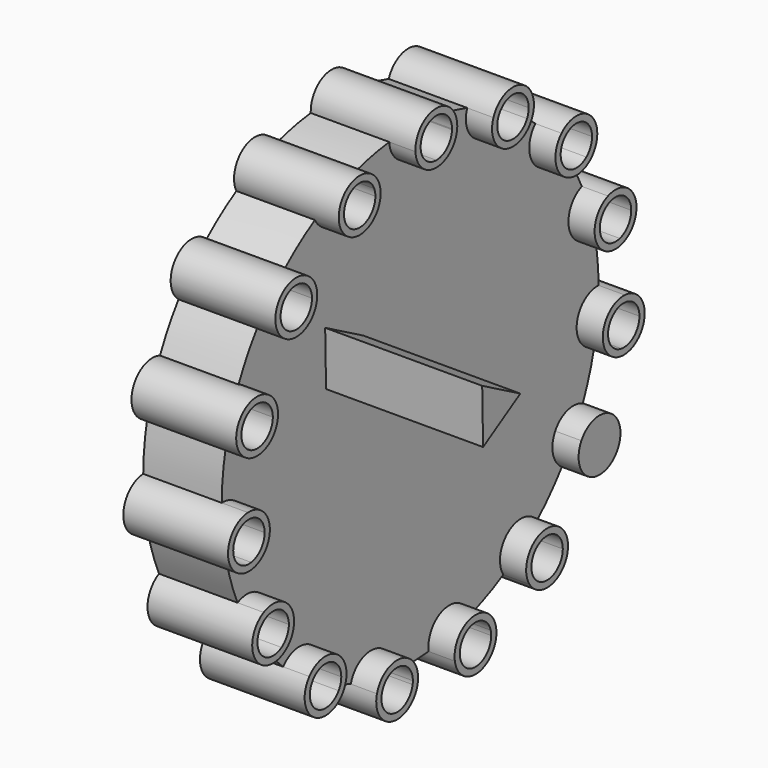
from build123d import *

# Parameters (mm, degrees)
F1_DEPTH = 12.7
F2_DEPTH = 16.9333333333
F3_DEPTH = 25.4
F4_DEPTH = 38.1


with BuildPart() as f1:
    # F0 (on Right) → F1 (new body)
    with BuildSketch(Plane.YZ):
        with BuildLine():
            ThreePointArc((-11.7328223284, 11.0955027242), (-13.5337021568, 13.6568077242), (-13.0819225114, 16.7550889591))
            Line((-13.0819225114, 16.7550889591), (-42.4113161862, 33.6884222925))
            Line((-42.4113161862, 33.6884222925), (-42.4113161862, 67.5550889591))
            ThreePointArc((-42.4113161862, 67.5550889591), (-45.3203962665, 68.7129769268), (-46.6381115491, 71.5532371073))
            ThreePointArc((-46.6381115491, 71.5532371073), (-50.3327516063, 70.9558458804), (-53.9509541505, 69.9988444279))
            ThreePointArc((-53.9509541505, 69.9988444279), (-53.7442982081, 69.2592564756), (-53.674648954, 68.4945042287))
            ThreePointArc((-53.674648954, 68.4945042287), (-56.9130953435, 64.3797367893), (-61.6736935588, 66.5604593142))
            ThreePointArc((-61.6736935588, 66.5604593142), (-64.8059342985, 64.5119697782), (-67.7220792394, 62.1660498915))
            ThreePointArc((-67.7220792394, 62.1660498915), (-66.8114373772, 60.7960175672), (-66.4918007035, 59.1822983947))
            ThreePointArc((-66.4918007035, 59.1822983947), (-68.8964795041, 55.364297123), (-73.3786355276, 55.8838076869))
            ThreePointArc((-73.3786355276, 55.8838076869), (-75.4068840704, 52.7384222925), (-77.1167434552, 49.409214832))
            ThreePointArc((-77.1167434552, 49.409214832), (-75.1539075411, 47.8541286048), (-74.4132361237, 45.4619697782))
            ThreePointArc((-74.4132361237, 45.4619697782), (-76.0640683133, 42.1075996504), (-79.729046653, 41.3693722862))
            ThreePointArc((-79.729046653, 41.3693722862), (-80.3026003997, 37.670956743), (-80.5105240074, 33.9341119236))
            ThreePointArc((-80.5105240074, 33.9341119236), (-77.3836193128, 32.7719375032), (-76.0692670664, 29.705887842))
            ThreePointArc((-76.0692670664, 29.705887842), (-77.0791203372, 26.9617509289), (-79.6268831598, 25.5268308523))
            ThreePointArc((-79.6268831598, 25.5268308523), (-78.646569457, 21.9148748068), (-77.3166054069, 18.4165270459))
            ThreePointArc((-77.3166054069, 18.4165270459), (-73.1891572928, 18.2443617056), (-71.173550737, 14.6384222925))
            ThreePointArc((-71.173550737, 14.6384222925), (-71.6833066358, 12.624450545), (-73.089810044, 11.0955027242))
            ThreePointArc((-73.089810044, 11.0955027242), (-70.7251340369, 8.1945461902), (-68.0872451954, 5.5395915972))
            ThreePointArc((-68.0872451954, 5.5395915972), (-63.3863871323, 6.8531071162), (-60.5726009652, 2.8648748068))
            ThreePointArc((-60.5726009652, 2.8648748068), (-60.7449976935, 1.6690884544), (-61.2481466348, 0.5706956397))
            ThreePointArc((-61.2481466348, 0.5706956397), (-57.9079822874, -1.1176596437), (-54.4182835998, -2.4701553002))
            ThreePointArc((-54.4182835998, -2.4701553002), (-49.7734250744, 0.6172190207), (-46.099418273, -3.5790012955))
            ThreePointArc((-46.099418273, -3.5790012955), (-46.111938247, -3.9043406512), (-46.1494241138, -4.2277556415))
            ThreePointArc((-46.1494241138, -4.2277556415), (-42.4113161862, -4.4115777075), (-38.6732082585, -4.2277556415))
            ThreePointArc((-38.6732082585, -4.2277556415), (-35.3700402572, 0.5618235476), (-30.4043487725, -2.4701553002))
            ThreePointArc((-30.4043487725, -2.4701553002), (-26.914650085, -1.1176596437), (-23.5744857376, 0.5706956397))
            ThreePointArc((-23.5744857376, 0.5706956397), (-22.5049889752, 6.2897134163), (-16.7353871769, 5.5395915972))
            ThreePointArc((-16.7353871769, 5.5395915972), (-14.0974983355, 8.1945461902), (-11.7328223284, 11.0955027242))
        make_face()
        Polygon((-59.4144481647, 41.5652124259), (-59.5970671258, 50.3621352012), (-51.8873990467, 46.1218264731), align=None, mode=Mode.SUBTRACT)
        with BuildLine():
            ThreePointArc((-5.1957492126, 25.5268308523), (-8.7301746631, 30.1483916698), (-4.312108365, 33.9341119236))
            ThreePointArc((-4.312108365, 33.9341119236), (-4.5200319727, 37.670956743), (-5.0935857194, 41.3693722862))
            ThreePointArc((-5.0935857194, 41.3693722862), (-10.2022021677, 44.1537978353), (-7.7058889171, 49.409214832))
            ThreePointArc((-7.7058889171, 49.409214832), (-9.415748302, 52.7384222925), (-11.4439968448, 55.8838076869))
            ThreePointArc((-11.4439968448, 55.8838076869), (-17.2434780967, 56.3496454945), (-17.100553133, 62.1660498915))
            ThreePointArc((-17.100553133, 62.1660498915), (-20.0166980738, 64.5119697782), (-23.1489388136, 66.5604593142))
            ThreePointArc((-23.1489388136, 66.5604593142), (-28.636501874, 64.6271617913), (-30.8716782219, 69.9988444279))
            ThreePointArc((-30.8716782219, 69.9988444279), (-34.489880766, 70.9558458804), (-38.1845208233, 71.5532371073))
            ThreePointArc((-38.1845208233, 71.5532371073), (-39.5022361059, 68.7129769268), (-42.4113161862, 67.5550889591))
            Line((-42.4113161862, 67.5550889591), (-42.4113161862, 33.6884222925))
            Line((-42.4113161862, 33.6884222925), (-13.0819225114, 16.7550889591))
            ThreePointArc((-13.0819225114, 16.7550889591), (-10.6246220765, 18.6954822265), (-7.5060269655, 18.4165270459))
            ThreePointArc((-7.5060269655, 18.4165270459), (-6.1760629153, 21.9148748068), (-5.1957492126, 25.5268308523))
        make_face()
    extrude(amount=F1_DEPTH)

    # F0 (on Right) → F2 (join)
    with BuildSketch(Plane.YZ):
        with BuildLine():
            ThreePointArc((-4.3200092744, 32.8745809354), (-4.3134895202, 33.2814784007), (-4.3113161862, 33.6884222925))
            ThreePointArc((-4.3113161862, 33.6884222925), (-4.3115142314, 33.8112677466), (-4.312108365, 33.9341119236))
            ThreePointArc((-4.312108365, 33.9341119236), (-8.7301746631, 30.1483916698), (-5.1957492126, 25.5268308523))
            ThreePointArc((-5.1957492126, 25.5268308523), (-5.0858603099, 26.0451020959), (-4.983188589, 26.5648512378))
            ThreePointArc((-4.983188589, 26.5648512378), (-7.6776389905, 30.0377657128), (-4.3200092744, 32.8745809354))
        make_face()
        with BuildLine():
            ThreePointArc((-30.2565474327, -3.5790012955), (-30.2936604499, -3.0196747636), (-30.4043487725, -2.4701553002))
            ThreePointArc((-30.4043487725, -2.4701553002), (-30.9082943538, -2.6336163167), (-31.4144641384, -2.7900541702))
            ThreePointArc((-31.4144641384, -2.7900541702), (-31.3398749888, -3.1813977195), (-31.314880766, -3.5790012955))
            ThreePointArc((-31.314880766, -3.5790012955), (-34.2238727227, -6.7428383205), (-37.6203073619, -4.1091468681))
            ThreePointArc((-37.6203073619, -4.1091468681), (-38.1463454767, -4.1721115766), (-38.6732082585, -4.2277556415))
            ThreePointArc((-38.6732082585, -4.2277556415), (-34.1645414103, -7.7998146549), (-30.2565474327, -3.5790012955))
        make_face()
        with BuildLine():
            ThreePointArc((-76.0692670664, 29.705887842), (-77.3836193128, 32.7719375032), (-80.5105240074, 33.9341119236))
            ThreePointArc((-80.5105240074, 33.9341119236), (-80.5102569234, 33.4043189626), (-80.5026230979, 32.8745809354))
            ThreePointArc((-80.5026230979, 32.8745809354), (-78.1294054093, 32.0205905299), (-77.1276003997, 29.705887842))
            ThreePointArc((-77.1276003997, 29.705887842), (-77.8993580839, 27.6310260703), (-79.8394437833, 26.5648512378))
            ThreePointArc((-79.8394437833, 26.5648512378), (-79.7367720625, 26.0451020959), (-79.6268831598, 25.5268308523))
            ThreePointArc((-79.6268831598, 25.5268308523), (-77.0791203372, 26.9617509289), (-76.0692670664, 29.705887842))
        make_face()
        with BuildLine():
            ThreePointArc((-24.0704700202, 67.0833824199), (-23.6078865185, 66.8251244931), (-23.1489388136, 66.5604593142))
            ThreePointArc((-23.1489388136, 66.5604593142), (-22.7998826456, 67.4996172848), (-22.6813167517, 68.4945042287))
            ThreePointArc((-22.6813167517, 68.4945042287), (-26.1498978381, 72.6581883079), (-30.8716782219, 69.9988444279))
            ThreePointArc((-30.8716782219, 69.9988444279), (-30.3678977076, 69.8348753875), (-29.8664458866, 69.663917135))
            ThreePointArc((-29.8664458866, 69.663917135), (-26.3193882393, 71.6132040114), (-23.739650085, 68.4945042287))
            ThreePointArc((-23.739650085, 68.4945042287), (-23.8234612598, 67.7698135035), (-24.0704700202, 67.0833824199))
        make_face()
        with BuildLine():
            ThreePointArc((-66.4918007035, 59.1822983947), (-66.8114373772, 60.7960175672), (-67.7220792394, 62.1660498915))
            ThreePointArc((-67.7220792394, 62.1660498915), (-68.1156134228, 61.8113507241), (-68.5041774703, 61.4512137589))
            ThreePointArc((-68.5041774703, 61.4512137589), (-67.7983472238, 60.4129664859), (-67.5501340369, 59.1822983947))
            ThreePointArc((-67.5501340369, 59.1822983947), (-69.3735852475, 56.309331136), (-72.7494668683, 56.7363422244))
            ThreePointArc((-72.7494668683, 56.7363422244), (-73.0670149629, 56.3122622078), (-73.3786355276, 55.8838076869))
            ThreePointArc((-73.3786355276, 55.8838076869), (-68.8964795041, 55.364297123), (-66.4918007035, 59.1822983947))
        make_face()
        with BuildLine():
            ThreePointArc((-62.161776932, 1.1073035221), (-61.7068272557, 0.8358234217), (-61.2481466348, 0.5706956397))
            ThreePointArc((-61.2481466348, 0.5706956397), (-60.7449976935, 1.6690884544), (-60.5726009652, 2.8648748068))
            ThreePointArc((-60.5726009652, 2.8648748068), (-63.3863871323, 6.8531071162), (-68.0872451954, 5.5395915972))
            ThreePointArc((-68.0872451954, 5.5395915972), (-67.6933535838, 5.1852893941), (-67.2945734838, 4.8364985046))
            ThreePointArc((-67.2945734838, 4.8364985046), (-63.7620962874, 5.8633789683), (-61.6309342985, 2.8648748068))
            ThreePointArc((-61.6309342985, 2.8648748068), (-61.7665408855, 1.9468809721), (-62.161776932, 1.1073035221))
        make_face()
        with BuildLine():
            ThreePointArc((-67.2945734838, 4.8364985046), (-64.8059342985, 2.8648748068), (-62.161776932, 1.1073035221))
            ThreePointArc((-62.161776932, 1.1073035221), (-61.7665408855, 1.9468809721), (-61.6309342985, 2.8648748068))
            ThreePointArc((-61.6309342985, 2.8648748068), (-63.7620962874, 5.8633789683), (-67.2945734838, 4.8364985046))
        make_face()
        with BuildLine():
            ThreePointArc((-12.073165504, 56.7363422244), (-11.7556174095, 56.3122622078), (-11.4439968448, 55.8838076869))
            ThreePointArc((-11.4439968448, 55.8838076869), (-10.2794970638, 57.353643862), (-9.8641650022, 59.1822983947))
            ThreePointArc((-9.8641650022, 59.1822983947), (-12.4837791631, 63.0959950544), (-17.100553133, 62.1660498915))
            ThreePointArc((-17.100553133, 62.1660498915), (-16.7070189496, 61.8113507241), (-16.318454902, 61.4512137589))
            ThreePointArc((-16.318454902, 61.4512137589), (-12.8668302443, 62.1090852079), (-10.9224983355, 59.1822983947))
            ThreePointArc((-10.9224983355, 59.1822983947), (-11.2245310767, 57.8307496054), (-12.073165504, 56.7363422244))
        make_face()
        with BuildLine():
            Line((-12.165378959, 16.2259222925), (-13.0819225114, 16.7550889591))
            ThreePointArc((-13.0819225114, 16.7550889591), (-13.5337021568, 13.6568077242), (-11.7328223284, 11.0955027242))
            ThreePointArc((-11.7328223284, 11.0955027242), (-11.4216339147, 11.5242712212), (-11.1164376092, 11.9573253378))
            ThreePointArc((-11.1164376092, 11.9573253378), (-12.4990204172, 13.8807560971), (-12.165378959, 16.2259222925))
        make_face()
        with BuildLine():
            ThreePointArc((-4.312108365, 33.9341119236), (-4.3115142314, 33.8112677466), (-4.3113161862, 33.6884222925))
            ThreePointArc((-4.3113161862, 33.6884222925), (-4.3134895202, 33.2814784007), (-4.3200092744, 32.8745809354))
            ThreePointArc((-4.3200092744, 32.8745809354), (-2.2053292847, 31.8790828324), (-1.3450319727, 29.705887842))
            ThreePointArc((-1.3450319727, 29.705887842), (-2.445170201, 27.3026455262), (-4.983188589, 26.5648512378))
            ThreePointArc((-4.983188589, 26.5648512378), (-5.0858603099, 26.0451020959), (-5.1957492126, 25.5268308523))
            ThreePointArc((-5.1957492126, 25.5268308523), (-1.7758950596, 26.4824077795), (-0.2866986393, 29.705887842))
            ThreePointArc((-0.2866986393, 29.705887842), (-1.4539823114, 32.6248689289), (-4.312108365, 33.9341119236))
        make_face()
        with BuildLine():
            ThreePointArc((-74.4132361237, 45.4619697782), (-75.1539075411, 47.8541286048), (-77.1167434552, 49.409214832))
            ThreePointArc((-77.1167434552, 49.409214832), (-77.3319856723, 48.9251162462), (-77.5404756927, 48.4380715211))
            ThreePointArc((-77.5404756927, 48.4380715211), (-76.0396102416, 47.2742580138), (-75.471569457, 45.4619697782))
            ThreePointArc((-75.471569457, 45.4619697782), (-76.727231771, 42.932786541), (-79.5010295181, 42.4041072888))
            ThreePointArc((-79.5010295181, 42.4041072888), (-79.6186352551, 41.8875324699), (-79.729046653, 41.3693722862))
            ThreePointArc((-79.729046653, 41.3693722862), (-76.0640683133, 42.1075996504), (-74.4132361237, 45.4619697782))
        make_face()
        with BuildLine():
            Line((-42.4113161862, 68.6134222925), (-42.4113161862, 67.5550889591))
            ThreePointArc((-42.4113161862, 67.5550889591), (-39.5022361059, 68.7129769268), (-38.1845208233, 71.5532371073))
            ThreePointArc((-38.1845208233, 71.5532371073), (-38.7114394409, 71.6083499304), (-39.2390734598, 71.6561306258))
            ThreePointArc((-39.2390734598, 71.6561306258), (-40.2135219558, 69.4970634116), (-42.4113161862, 68.6134222925))
        make_face()
        with BuildLine():
            ThreePointArc((-47.2023250105, -4.1091468681), (-46.6762868956, -4.1721115766), (-46.1494241138, -4.2277556415))
            ThreePointArc((-46.1494241138, -4.2277556415), (-46.111938247, -3.9043406512), (-46.099418273, -3.5790012955))
            ThreePointArc((-46.099418273, -3.5790012955), (-49.7734250744, 0.6172190207), (-54.4182835998, -2.4701553002))
            ThreePointArc((-54.4182835998, -2.4701553002), (-53.9143380185, -2.6336163167), (-53.408168234, -2.7900541702))
            ThreePointArc((-53.408168234, -2.7900541702), (-49.9351480304, -0.4289955183), (-47.1577516063, -3.5790012955))
            ThreePointArc((-47.1577516063, -3.5790012955), (-47.1689145813, -3.8450093388), (-47.2023250105, -4.1091468681))
        make_face()
        with BuildLine():
            ThreePointArc((-7.7058889171, 49.409214832), (-10.2022021677, 44.1537978353), (-5.0935857194, 41.3693722862))
            ThreePointArc((-5.0935857194, 41.3693722862), (-5.2039971173, 41.8875324699), (-5.3216028543, 42.4041072888))
            ThreePointArc((-5.3216028543, 42.4041072888), (-9.1956673546, 44.480840821), (-7.2821566797, 48.4380715211))
            ThreePointArc((-7.2821566797, 48.4380715211), (-7.4906467, 48.9251162462), (-7.7058889171, 49.409214832))
        make_face()
        with BuildLine():
            ThreePointArc((-53.408168234, -2.7900541702), (-50.3327516063, -3.5790012955), (-47.2023250105, -4.1091468681))
            ThreePointArc((-47.2023250105, -4.1091468681), (-47.1689145813, -3.8450093388), (-47.1577516063, -3.5790012955))
            ThreePointArc((-47.1577516063, -3.5790012955), (-49.9351480304, -0.4289955183), (-53.408168234, -2.7900541702))
        make_face()
        with BuildLine():
            ThreePointArc((-68.0872451954, 5.5395915972), (-67.2942251999, -0.5599638027), (-61.2481466348, 0.5706956397))
            ThreePointArc((-61.2481466348, 0.5706956397), (-61.7068272557, 0.8358234217), (-62.161776932, 1.1073035221))
            ThreePointArc((-62.161776932, 1.1073035221), (-66.6721524746, 0.2962458496), (-67.2945734838, 4.8364985046))
            ThreePointArc((-67.2945734838, 4.8364985046), (-67.6933535838, 5.1852893941), (-68.0872451954, 5.5395915972))
        make_face()
        with BuildLine():
            ThreePointArc((-80.5026230979, 32.8745809354), (-80.5102569234, 33.4043189626), (-80.5105240074, 33.9341119236))
            ThreePointArc((-80.5105240074, 33.9341119236), (-84.5127430901, 29.2633840141), (-79.6268831598, 25.5268308523))
            ThreePointArc((-79.6268831598, 25.5268308523), (-79.7367720625, 26.0451020959), (-79.8394437833, 26.5648512378))
            ThreePointArc((-79.8394437833, 26.5648512378), (-83.4602074175, 29.3740099711), (-80.5026230979, 32.8745809354))
        make_face()
        with BuildLine():
            ThreePointArc((-4.983188589, 26.5648512378), (-4.5200319727, 29.705887842), (-4.3200092744, 32.8745809354))
            ThreePointArc((-4.3200092744, 32.8745809354), (-7.6776389905, 30.0377657128), (-4.983188589, 26.5648512378))
        make_face()
        with BuildLine():
            ThreePointArc((-68.5041774703, 61.4512137589), (-68.1156134228, 61.8113507241), (-67.7220792394, 62.1660498915))
            ThreePointArc((-67.7220792394, 62.1660498915), (-73.8711137981, 62.014951295), (-73.3786355276, 55.8838076869))
            ThreePointArc((-73.3786355276, 55.8838076869), (-73.0670149629, 56.3122622078), (-72.7494668683, 56.7363422244))
            ThreePointArc((-72.7494668683, 56.7363422244), (-73.0846188578, 61.3067880699), (-68.5041774703, 61.4512137589))
        make_face()
        with BuildLine():
            ThreePointArc((-31.4144641384, -2.7900541702), (-30.9082943538, -2.6336163167), (-30.4043487725, -2.4701553002))
            ThreePointArc((-30.4043487725, -2.4701553002), (-35.3700402572, 0.5618235476), (-38.6732082585, -4.2277556415))
            ThreePointArc((-38.6732082585, -4.2277556415), (-38.1463454767, -4.1721115766), (-37.6203073619, -4.1091468681))
            ThreePointArc((-37.6203073619, -4.1091468681), (-35.1500003844, -0.4733826632), (-31.4144641384, -2.7900541702))
        make_face()
        with BuildLine():
            ThreePointArc((-73.7061947632, 11.9573253378), (-73.4009984577, 11.5242712212), (-73.089810044, 11.0955027242))
            ThreePointArc((-73.089810044, 11.0955027242), (-71.6833066358, 12.624450545), (-71.173550737, 14.6384222925))
            ThreePointArc((-71.173550737, 14.6384222925), (-73.1891572928, 18.2443617056), (-77.3166054069, 18.4165270459))
            ThreePointArc((-77.3166054069, 18.4165270459), (-77.100875203, 17.9326457258), (-76.8784374895, 17.4518109138))
            ThreePointArc((-76.8784374895, 17.4518109138), (-73.7624323541, 17.354375818), (-72.2318840704, 14.6384222925))
            ThreePointArc((-72.2318840704, 14.6384222925), (-72.624770346, 13.108563402), (-73.7061947632, 11.9573253378))
        make_face()
        with BuildLine():
            ThreePointArc((-77.1276003997, 29.705887842), (-78.1294054093, 32.0205905299), (-80.5026230979, 32.8745809354))
            ThreePointArc((-80.5026230979, 32.8745809354), (-80.3026003997, 29.705887842), (-79.8394437833, 26.5648512378))
            ThreePointArc((-79.8394437833, 26.5648512378), (-77.8993580839, 27.6310260703), (-77.1276003997, 29.705887842))
        make_face()
        with BuildLine():
            ThreePointArc((-54.7329822874, 68.4945042287), (-54.7892825046, 69.0897660744), (-54.9561864858, 69.663917135))
            ThreePointArc((-54.9561864858, 69.663917135), (-57.9079822874, 68.4945042287), (-60.7521623522, 67.0833824199))
            ThreePointArc((-60.7521623522, 67.0833824199), (-57.1832915622, 65.4033154035), (-54.7329822874, 68.4945042287))
        make_face()
        with BuildLine():
            ThreePointArc((-30.8716782219, 69.9988444279), (-28.636501874, 64.6271617913), (-23.1489388136, 66.5604593142))
            ThreePointArc((-23.1489388136, 66.5604593142), (-23.6078865185, 66.8251244931), (-24.0704700202, 67.0833824199))
            ThreePointArc((-24.0704700202, 67.0833824199), (-28.2060389268, 65.5939974006), (-29.8664458866, 69.663917135))
            ThreePointArc((-29.8664458866, 69.663917135), (-30.3678977076, 69.8348753875), (-30.8716782219, 69.9988444279))
        make_face()
        with BuildLine():
            ThreePointArc((-54.4182835998, -2.4701553002), (-51.2129110975, -7.7198261386), (-46.1494241138, -4.2277556415))
            ThreePointArc((-46.1494241138, -4.2277556415), (-46.6762868956, -4.1721115766), (-47.2023250105, -4.1091468681))
            ThreePointArc((-47.2023250105, -4.1091468681), (-50.9928712247, -6.6846199278), (-53.408168234, -2.7900541702))
            ThreePointArc((-53.408168234, -2.7900541702), (-53.9143380185, -2.6336163167), (-54.4182835998, -2.4701553002))
        make_face()
        with BuildLine():
            ThreePointArc((-67.2945734838, 4.8364985046), (-66.6721524746, 0.2962458496), (-62.161776932, 1.1073035221))
            ThreePointArc((-62.161776932, 1.1073035221), (-64.8059342985, 2.8648748068), (-67.2945734838, 4.8364985046))
        make_face()
        with BuildLine():
            ThreePointArc((-17.100553133, 62.1660498915), (-17.2434780967, 56.3496454945), (-11.4439968448, 55.8838076869))
            ThreePointArc((-11.4439968448, 55.8838076869), (-11.7556174095, 56.3122622078), (-12.073165504, 56.7363422244))
            ThreePointArc((-12.073165504, 56.7363422244), (-16.4569831564, 57.0578087196), (-16.318454902, 61.4512137589))
            ThreePointArc((-16.318454902, 61.4512137589), (-16.7070189496, 61.8113507241), (-17.100553133, 62.1660498915))
        make_face()
        with BuildLine():
            ThreePointArc((-15.7833647405, 2.8648748068), (-16.0284657644, 4.284421973), (-16.7353871769, 5.5395915972))
            ThreePointArc((-16.7353871769, 5.5395915972), (-17.1292787885, 5.1852893941), (-17.5280588886, 4.8364985046))
            ThreePointArc((-17.5280588886, 4.8364985046), (-17.0181939123, 3.9087128179), (-16.8416980738, 2.8648748068))
            ThreePointArc((-16.8416980738, 2.8648748068), (-19.0987042391, -0.1745186063), (-22.6608554404, 1.1073035221))
            ThreePointArc((-22.6608554404, 1.1073035221), (-23.1158051166, 0.8358234217), (-23.5744857376, 0.5706956397))
            ThreePointArc((-23.5744857376, 0.5706956397), (-18.8209117214, -1.1960617983), (-15.7833647405, 2.8648748068))
        make_face()
        with BuildLine():
            ThreePointArc((-72.7494668683, 56.7363422244), (-70.7251340369, 59.1822983947), (-68.5041774703, 61.4512137589))
            ThreePointArc((-68.5041774703, 61.4512137589), (-73.0846188578, 61.3067880699), (-72.7494668683, 56.7363422244))
        make_face()
        with BuildLine():
            ThreePointArc((-17.5280588886, 4.8364985046), (-17.1292787885, 5.1852893941), (-16.7353871769, 5.5395915972))
            ThreePointArc((-16.7353871769, 5.5395915972), (-22.5049889752, 6.2897134163), (-23.5744857376, 0.5706956397))
            ThreePointArc((-23.5744857376, 0.5706956397), (-23.1158051166, 0.8358234217), (-22.6608554404, 1.1073035221))
            ThreePointArc((-22.6608554404, 1.1073035221), (-21.8829162499, 5.4335037639), (-17.5280588886, 4.8364985046))
        make_face()
        with BuildLine():
            ThreePointArc((-5.3216028543, 42.4041072888), (-5.2039971173, 41.8875324699), (-5.0935857194, 41.3693722862))
            ThreePointArc((-5.0935857194, 41.3693722862), (-2.8216927876, 42.8794686344), (-1.942729582, 45.4619697782))
            ThreePointArc((-1.942729582, 45.4619697782), (-3.7839040887, 48.9546316941), (-7.7058889171, 49.409214832))
            ThreePointArc((-7.7058889171, 49.409214832), (-7.4906467, 48.9251162462), (-7.2821566797, 48.4380715211))
            ThreePointArc((-7.2821566797, 48.4380715211), (-4.3637746797, 48.0689289936), (-3.0010629153, 45.4619697782))
            ThreePointArc((-3.0010629153, 45.4619697782), (-3.6468796782, 43.5426320921), (-5.3216028543, 42.4041072888))
        make_face()
        with BuildLine():
            ThreePointArc((-77.3166054069, 18.4165270459), (-79.0730582797, 12.5217556258), (-73.089810044, 11.0955027242))
            ThreePointArc((-73.089810044, 11.0955027242), (-73.4009984577, 11.5242712212), (-73.7061947632, 11.9573253378))
            ThreePointArc((-73.7061947632, 11.9573253378), (-78.1565147274, 13.0509222925), (-76.8784374895, 17.4518109138))
            ThreePointArc((-76.8784374895, 17.4518109138), (-77.100875203, 17.9326457258), (-77.3166054069, 18.4165270459))
        make_face()
        Polygon((-51.8873990467, 46.1218264731), (-59.5970671258, 50.3621352012), (-59.4144481647, 41.5652124259), align=None)
        with BuildLine():
            ThreePointArc((-54.9561864858, 69.663917135), (-54.4547346648, 69.8348753875), (-53.9509541505, 69.9988444279))
            ThreePointArc((-53.9509541505, 69.9988444279), (-59.6298340764, 72.361846666), (-61.6736935588, 66.5604593142))
            ThreePointArc((-61.6736935588, 66.5604593142), (-61.2147458539, 66.8251244931), (-60.7521623522, 67.0833824199))
            ThreePointArc((-60.7521623522, 67.0833824199), (-59.1993711291, 71.3950110567), (-54.9561864858, 69.663917135))
        make_face()
        with BuildLine():
            ThreePointArc((-5.1824149687, 14.6384222925), (-5.8098088889, 16.8561490701), (-7.5060269655, 18.4165270459))
            ThreePointArc((-7.5060269655, 18.4165270459), (-7.7217571694, 17.9326457258), (-7.9441948829, 17.4518109138))
            ThreePointArc((-7.9441948829, 17.4518109138), (-6.6997947765, 16.2828740087), (-6.240748302, 14.6384222925))
            ThreePointArc((-6.240748302, 14.6384222925), (-7.8858894115, 11.8563085681), (-11.1164376092, 11.9573253378))
            ThreePointArc((-11.1164376092, 11.9573253378), (-11.4216339147, 11.5242712212), (-11.7328223284, 11.0955027242))
            ThreePointArc((-11.7328223284, 11.0955027242), (-7.4017765545, 10.9148448579), (-5.1824149687, 14.6384222925))
        make_face()
        with BuildLine():
            ThreePointArc((-53.408168234, -2.7900541702), (-50.9928712247, -6.6846199278), (-47.2023250105, -4.1091468681))
            ThreePointArc((-47.2023250105, -4.1091468681), (-50.3327516063, -3.5790012955), (-53.408168234, -2.7900541702))
        make_face()
        with BuildLine():
            ThreePointArc((-7.9441948829, 17.4518109138), (-7.7217571694, 17.9326457258), (-7.5060269655, 18.4165270459))
            ThreePointArc((-7.5060269655, 18.4165270459), (-10.6246220765, 18.6954822265), (-13.0819225114, 16.7550889591))
            Line((-13.0819225114, 16.7550889591), (-12.165378959, 16.2259222925))
            ThreePointArc((-12.165378959, 16.2259222925), (-10.3012261868, 17.6874473687), (-7.9441948829, 17.4518109138))
        make_face()
        with BuildLine():
            ThreePointArc((-77.5404756927, 48.4380715211), (-77.3319856723, 48.9251162462), (-77.1167434552, 49.409214832))
            ThreePointArc((-77.1167434552, 49.409214832), (-82.6727087094, 46.770141721), (-79.729046653, 41.3693722862))
            ThreePointArc((-79.729046653, 41.3693722862), (-79.6186352551, 41.8875324699), (-79.5010295181, 42.4041072888))
            ThreePointArc((-79.5010295181, 42.4041072888), (-81.6661738963, 46.4430987353), (-77.5404756927, 48.4380715211))
        make_face()
        with BuildLine():
            ThreePointArc((-53.674648954, 68.4945042287), (-53.7442982081, 69.2592564756), (-53.9509541505, 69.9988444279))
            ThreePointArc((-53.9509541505, 69.9988444279), (-54.4547346648, 69.8348753875), (-54.9561864858, 69.663917135))
            ThreePointArc((-54.9561864858, 69.663917135), (-54.7892825046, 69.0897660744), (-54.7329822874, 68.4945042287))
            ThreePointArc((-54.7329822874, 68.4945042287), (-57.1832915622, 65.4033154035), (-60.7521623522, 67.0833824199))
            ThreePointArc((-60.7521623522, 67.0833824199), (-61.2147458539, 66.8251244931), (-61.6736935588, 66.5604593142))
            ThreePointArc((-61.6736935588, 66.5604593142), (-56.9130953435, 64.3797367893), (-53.674648954, 68.4945042287))
        make_face()
        with BuildLine():
            ThreePointArc((-16.318454902, 61.4512137589), (-14.0974983355, 59.1822983947), (-12.073165504, 56.7363422244))
            ThreePointArc((-12.073165504, 56.7363422244), (-11.2245310767, 57.8307496054), (-10.9224983355, 59.1822983947))
            ThreePointArc((-10.9224983355, 59.1822983947), (-12.8668302443, 62.1090852079), (-16.318454902, 61.4512137589))
        make_face()
        with BuildLine():
            ThreePointArc((-29.8664458866, 69.663917135), (-28.2060389268, 65.5939974006), (-24.0704700202, 67.0833824199))
            ThreePointArc((-24.0704700202, 67.0833824199), (-26.914650085, 68.4945042287), (-29.8664458866, 69.663917135))
        make_face()
        with BuildLine():
            ThreePointArc((-7.2821566797, 48.4380715211), (-6.1760629153, 45.4619697782), (-5.3216028543, 42.4041072888))
            ThreePointArc((-5.3216028543, 42.4041072888), (-3.6468796782, 43.5426320921), (-3.0010629153, 45.4619697782))
            ThreePointArc((-3.0010629153, 45.4619697782), (-4.3637746797, 48.0689289936), (-7.2821566797, 48.4380715211))
        make_face()
        with BuildLine():
            ThreePointArc((-16.8416980738, 2.8648748068), (-17.0181939123, 3.9087128179), (-17.5280588886, 4.8364985046))
            ThreePointArc((-17.5280588886, 4.8364985046), (-20.0166980738, 2.8648748068), (-22.6608554404, 1.1073035221))
            ThreePointArc((-22.6608554404, 1.1073035221), (-19.0987042391, -0.1745186063), (-16.8416980738, 2.8648748068))
        make_face()
        with BuildLine():
            ThreePointArc((-1.3450319727, 29.705887842), (-2.2053292847, 31.8790828324), (-4.3200092744, 32.8745809354))
            ThreePointArc((-4.3200092744, 32.8745809354), (-4.5200319727, 29.705887842), (-4.983188589, 26.5648512378))
            ThreePointArc((-4.983188589, 26.5648512378), (-2.445170201, 27.3026455262), (-1.3450319727, 29.705887842))
        make_face()
        with BuildLine():
            ThreePointArc((-22.6608554404, 1.1073035221), (-20.0166980738, 2.8648748068), (-17.5280588886, 4.8364985046))
            ThreePointArc((-17.5280588886, 4.8364985046), (-21.8829162499, 5.4335037639), (-22.6608554404, 1.1073035221))
        make_face()
        with BuildLine():
            ThreePointArc((-46.6381115491, 71.5532371073), (-45.3203962665, 68.7129769268), (-42.4113161862, 67.5550889591))
            Line((-42.4113161862, 67.5550889591), (-42.4113161862, 68.6134222925))
            ThreePointArc((-42.4113161862, 68.6134222925), (-44.6091104166, 69.4970634116), (-45.5835589125, 71.6561306258))
            ThreePointArc((-45.5835589125, 71.6561306258), (-46.1111929315, 71.6083499304), (-46.6381115491, 71.5532371073))
        make_face()
        with BuildLine():
            ThreePointArc((-38.1779828529, 71.7884222925), (-42.5289542077, 76.0201208175), (-46.6381115491, 71.5532371073))
            ThreePointArc((-46.6381115491, 71.5532371073), (-46.1111929315, 71.6083499304), (-45.5835589125, 71.6561306258))
            ThreePointArc((-45.5835589125, 71.6561306258), (-42.477476385, 74.9627328992), (-39.2363161862, 71.7884222925))
            ThreePointArc((-39.2363161862, 71.7884222925), (-39.2370055794, 71.7222620937), (-39.2390734598, 71.6561306258))
            ThreePointArc((-39.2390734598, 71.6561306258), (-38.7114394409, 71.6083499304), (-38.1845208233, 71.5532371073))
            ThreePointArc((-38.1845208233, 71.5532371073), (-38.1796176611, 71.670784271), (-38.1779828529, 71.7884222925))
        make_face()
        with BuildLine():
            ThreePointArc((-79.5010295181, 42.4041072888), (-78.646569457, 45.4619697782), (-77.5404756927, 48.4380715211))
            ThreePointArc((-77.5404756927, 48.4380715211), (-81.6661738963, 46.4430987353), (-79.5010295181, 42.4041072888))
        make_face()
        with BuildLine():
            ThreePointArc((-60.7521623522, 67.0833824199), (-57.9079822874, 68.4945042287), (-54.9561864858, 69.663917135))
            ThreePointArc((-54.9561864858, 69.663917135), (-59.1993711291, 71.3950110567), (-60.7521623522, 67.0833824199))
        make_face()
        with BuildLine():
            ThreePointArc((-76.8784374895, 17.4518109138), (-75.4068840704, 14.6384222925), (-73.7061947632, 11.9573253378))
            ThreePointArc((-73.7061947632, 11.9573253378), (-72.624770346, 13.108563402), (-72.2318840704, 14.6384222925))
            ThreePointArc((-72.2318840704, 14.6384222925), (-73.7624323541, 17.354375818), (-76.8784374895, 17.4518109138))
        make_face()
        with BuildLine():
            ThreePointArc((-6.240748302, 14.6384222925), (-6.6997947765, 16.2828740087), (-7.9441948829, 17.4518109138))
            ThreePointArc((-7.9441948829, 17.4518109138), (-8.6506527302, 16.0297812628), (-9.415748302, 14.6384222925))
            ThreePointArc((-9.415748302, 14.6384222925), (-10.2381527302, 13.2801506058), (-11.1164376092, 11.9573253378))
            ThreePointArc((-11.1164376092, 11.9573253378), (-7.8858894115, 11.8563085681), (-6.240748302, 14.6384222925))
        make_face()
        with BuildLine():
            ThreePointArc((-31.314880766, -3.5790012955), (-31.3398749888, -3.1813977195), (-31.4144641384, -2.7900541702))
            ThreePointArc((-31.4144641384, -2.7900541702), (-34.489880766, -3.5790012955), (-37.6203073619, -4.1091468681))
            ThreePointArc((-37.6203073619, -4.1091468681), (-34.2238727227, -6.7428383205), (-31.314880766, -3.5790012955))
        make_face()
        with BuildLine():
            ThreePointArc((-16.318454902, 61.4512137589), (-16.4569831564, 57.0578087196), (-12.073165504, 56.7363422244))
            ThreePointArc((-12.073165504, 56.7363422244), (-14.0974983355, 59.1822983947), (-16.318454902, 61.4512137589))
        make_face()
        with BuildLine():
            ThreePointArc((-9.415748302, 14.6384222925), (-8.6506527302, 16.0297812628), (-7.9441948829, 17.4518109138))
            ThreePointArc((-7.9441948829, 17.4518109138), (-10.3012261868, 17.6874473687), (-12.165378959, 16.2259222925))
            Line((-12.165378959, 16.2259222925), (-9.415748302, 14.6384222925))
        make_face()
        with BuildLine():
            ThreePointArc((-29.8664458866, 69.663917135), (-26.914650085, 68.4945042287), (-24.0704700202, 67.0833824199))
            ThreePointArc((-24.0704700202, 67.0833824199), (-23.8234612598, 67.7698135035), (-23.739650085, 68.4945042287))
            ThreePointArc((-23.739650085, 68.4945042287), (-26.3193882393, 71.6132040114), (-29.8664458866, 69.663917135))
        make_face()
        with BuildLine():
            ThreePointArc((-37.6203073619, -4.1091468681), (-34.489880766, -3.5790012955), (-31.4144641384, -2.7900541702))
            ThreePointArc((-31.4144641384, -2.7900541702), (-35.1500003844, -0.4733826632), (-37.6203073619, -4.1091468681))
        make_face()
        with BuildLine():
            ThreePointArc((-7.2821566797, 48.4380715211), (-9.1956673546, 44.480840821), (-5.3216028543, 42.4041072888))
            ThreePointArc((-5.3216028543, 42.4041072888), (-6.1760629153, 45.4619697782), (-7.2821566797, 48.4380715211))
        make_face()
        with BuildLine():
            ThreePointArc((-75.471569457, 45.4619697782), (-76.0396102416, 47.2742580138), (-77.5404756927, 48.4380715211))
            ThreePointArc((-77.5404756927, 48.4380715211), (-78.646569457, 45.4619697782), (-79.5010295181, 42.4041072888))
            ThreePointArc((-79.5010295181, 42.4041072888), (-76.727231771, 42.932786541), (-75.471569457, 45.4619697782))
        make_face()
        with BuildLine():
            ThreePointArc((-79.8394437833, 26.5648512378), (-80.3026003997, 29.705887842), (-80.5026230979, 32.8745809354))
            ThreePointArc((-80.5026230979, 32.8745809354), (-83.4602074175, 29.3740099711), (-79.8394437833, 26.5648512378))
        make_face()
        with BuildLine():
            Line((-42.4113161862, 71.7884222925), (-42.4113161862, 68.6134222925))
            ThreePointArc((-42.4113161862, 68.6134222925), (-40.2135219558, 69.4970634116), (-39.2390734598, 71.6561306258))
            ThreePointArc((-39.2390734598, 71.6561306258), (-40.8238161862, 71.7553350088), (-42.4113161862, 71.7884222925))
        make_face()
        with BuildLine():
            ThreePointArc((-45.5835589125, 71.6561306258), (-44.6091104166, 69.4970634116), (-42.4113161862, 68.6134222925))
            Line((-42.4113161862, 68.6134222925), (-42.4113161862, 71.7884222925))
            ThreePointArc((-42.4113161862, 71.7884222925), (-43.9988161862, 71.7553350088), (-45.5835589125, 71.6561306258))
        make_face()
        with BuildLine():
            ThreePointArc((-39.2363161862, 71.7884222925), (-42.477476385, 74.9627328992), (-45.5835589125, 71.6561306258))
            ThreePointArc((-45.5835589125, 71.6561306258), (-43.9988161862, 71.7553350088), (-42.4113161862, 71.7884222925))
            ThreePointArc((-42.4113161862, 71.7884222925), (-40.8238161862, 71.7553350088), (-39.2390734598, 71.6561306258))
            ThreePointArc((-39.2390734598, 71.6561306258), (-39.2370055794, 71.7222620937), (-39.2363161862, 71.7884222925))
        make_face()
        with BuildLine():
            ThreePointArc((-11.1164376092, 11.9573253378), (-10.2381527302, 13.2801506058), (-9.415748302, 14.6384222925))
            Line((-9.415748302, 14.6384222925), (-12.165378959, 16.2259222925))
            ThreePointArc((-12.165378959, 16.2259222925), (-12.4990204172, 13.8807560971), (-11.1164376092, 11.9573253378))
        make_face()
        with BuildLine():
            ThreePointArc((-76.8784374895, 17.4518109138), (-78.1565147274, 13.0509222925), (-73.7061947632, 11.9573253378))
            ThreePointArc((-73.7061947632, 11.9573253378), (-75.4068840704, 14.6384222925), (-76.8784374895, 17.4518109138))
        make_face()
        with BuildLine():
            ThreePointArc((-67.5501340369, 59.1822983947), (-67.7983472238, 60.4129664859), (-68.5041774703, 61.4512137589))
            ThreePointArc((-68.5041774703, 61.4512137589), (-70.7251340369, 59.1822983947), (-72.7494668683, 56.7363422244))
            ThreePointArc((-72.7494668683, 56.7363422244), (-69.3735852475, 56.309331136), (-67.5501340369, 59.1822983947))
        make_face()
    extrude(amount=F2_DEPTH)

    # F0 (on Right) → F3 (cut)
    with BuildSketch(Plane.YZ):
        with BuildLine():
            ThreePointArc((-16.318454902, 61.4512137589), (-16.4569831564, 57.0578087196), (-12.073165504, 56.7363422244))
            ThreePointArc((-12.073165504, 56.7363422244), (-14.0974983355, 59.1822983947), (-16.318454902, 61.4512137589))
        make_face()
        with BuildLine():
            ThreePointArc((-16.318454902, 61.4512137589), (-14.0974983355, 59.1822983947), (-12.073165504, 56.7363422244))
            ThreePointArc((-12.073165504, 56.7363422244), (-11.2245310767, 57.8307496054), (-10.9224983355, 59.1822983947))
            ThreePointArc((-10.9224983355, 59.1822983947), (-12.8668302443, 62.1090852079), (-16.318454902, 61.4512137589))
        make_face()
        with BuildLine():
            ThreePointArc((-29.8664458866, 69.663917135), (-26.914650085, 68.4945042287), (-24.0704700202, 67.0833824199))
            ThreePointArc((-24.0704700202, 67.0833824199), (-23.8234612598, 67.7698135035), (-23.739650085, 68.4945042287))
            ThreePointArc((-23.739650085, 68.4945042287), (-26.3193882393, 71.6132040114), (-29.8664458866, 69.663917135))
        make_face()
        with BuildLine():
            ThreePointArc((-29.8664458866, 69.663917135), (-28.2060389268, 65.5939974006), (-24.0704700202, 67.0833824199))
            ThreePointArc((-24.0704700202, 67.0833824199), (-26.914650085, 68.4945042287), (-29.8664458866, 69.663917135))
        make_face()
        with BuildLine():
            ThreePointArc((-39.2363161862, 71.7884222925), (-42.477476385, 74.9627328992), (-45.5835589125, 71.6561306258))
            ThreePointArc((-45.5835589125, 71.6561306258), (-43.9988161862, 71.7553350088), (-42.4113161862, 71.7884222925))
            ThreePointArc((-42.4113161862, 71.7884222925), (-40.8238161862, 71.7553350088), (-39.2390734598, 71.6561306258))
            ThreePointArc((-39.2390734598, 71.6561306258), (-39.2370055794, 71.7222620937), (-39.2363161862, 71.7884222925))
        make_face()
        with BuildLine():
            ThreePointArc((-45.5835589125, 71.6561306258), (-44.6091104166, 69.4970634116), (-42.4113161862, 68.6134222925))
            Line((-42.4113161862, 68.6134222925), (-42.4113161862, 71.7884222925))
            ThreePointArc((-42.4113161862, 71.7884222925), (-43.9988161862, 71.7553350088), (-45.5835589125, 71.6561306258))
        make_face()
        with BuildLine():
            Line((-42.4113161862, 71.7884222925), (-42.4113161862, 68.6134222925))
            ThreePointArc((-42.4113161862, 68.6134222925), (-40.2135219558, 69.4970634116), (-39.2390734598, 71.6561306258))
            ThreePointArc((-39.2390734598, 71.6561306258), (-40.8238161862, 71.7553350088), (-42.4113161862, 71.7884222925))
        make_face()
        with BuildLine():
            ThreePointArc((-60.7521623522, 67.0833824199), (-57.9079822874, 68.4945042287), (-54.9561864858, 69.663917135))
            ThreePointArc((-54.9561864858, 69.663917135), (-59.1993711291, 71.3950110567), (-60.7521623522, 67.0833824199))
        make_face()
        with BuildLine():
            ThreePointArc((-54.7329822874, 68.4945042287), (-54.7892825046, 69.0897660744), (-54.9561864858, 69.663917135))
            ThreePointArc((-54.9561864858, 69.663917135), (-57.9079822874, 68.4945042287), (-60.7521623522, 67.0833824199))
            ThreePointArc((-60.7521623522, 67.0833824199), (-57.1832915622, 65.4033154035), (-54.7329822874, 68.4945042287))
        make_face()
        with BuildLine():
            ThreePointArc((-72.7494668683, 56.7363422244), (-70.7251340369, 59.1822983947), (-68.5041774703, 61.4512137589))
            ThreePointArc((-68.5041774703, 61.4512137589), (-73.0846188578, 61.3067880699), (-72.7494668683, 56.7363422244))
        make_face()
        with BuildLine():
            ThreePointArc((-7.2821566797, 48.4380715211), (-6.1760629153, 45.4619697782), (-5.3216028543, 42.4041072888))
            ThreePointArc((-5.3216028543, 42.4041072888), (-3.6468796782, 43.5426320921), (-3.0010629153, 45.4619697782))
            ThreePointArc((-3.0010629153, 45.4619697782), (-4.3637746797, 48.0689289936), (-7.2821566797, 48.4380715211))
        make_face()
        with BuildLine():
            ThreePointArc((-7.2821566797, 48.4380715211), (-9.1956673546, 44.480840821), (-5.3216028543, 42.4041072888))
            ThreePointArc((-5.3216028543, 42.4041072888), (-6.1760629153, 45.4619697782), (-7.2821566797, 48.4380715211))
        make_face()
        with BuildLine():
            ThreePointArc((-4.983188589, 26.5648512378), (-4.5200319727, 29.705887842), (-4.3200092744, 32.8745809354))
            ThreePointArc((-4.3200092744, 32.8745809354), (-7.6776389905, 30.0377657128), (-4.983188589, 26.5648512378))
        make_face()
        with BuildLine():
            ThreePointArc((-1.3450319727, 29.705887842), (-2.2053292847, 31.8790828324), (-4.3200092744, 32.8745809354))
            ThreePointArc((-4.3200092744, 32.8745809354), (-4.5200319727, 29.705887842), (-4.983188589, 26.5648512378))
            ThreePointArc((-4.983188589, 26.5648512378), (-2.445170201, 27.3026455262), (-1.3450319727, 29.705887842))
        make_face()
        with BuildLine():
            ThreePointArc((-22.6608554404, 1.1073035221), (-20.0166980738, 2.8648748068), (-17.5280588886, 4.8364985046))
            ThreePointArc((-17.5280588886, 4.8364985046), (-21.8829162499, 5.4335037639), (-22.6608554404, 1.1073035221))
        make_face()
        with BuildLine():
            ThreePointArc((-16.8416980738, 2.8648748068), (-17.0181939123, 3.9087128179), (-17.5280588886, 4.8364985046))
            ThreePointArc((-17.5280588886, 4.8364985046), (-20.0166980738, 2.8648748068), (-22.6608554404, 1.1073035221))
            ThreePointArc((-22.6608554404, 1.1073035221), (-19.0987042391, -0.1745186063), (-16.8416980738, 2.8648748068))
        make_face()
        with BuildLine():
            ThreePointArc((-37.6203073619, -4.1091468681), (-34.489880766, -3.5790012955), (-31.4144641384, -2.7900541702))
            ThreePointArc((-31.4144641384, -2.7900541702), (-35.1500003844, -0.4733826632), (-37.6203073619, -4.1091468681))
        make_face()
        with BuildLine():
            ThreePointArc((-31.314880766, -3.5790012955), (-31.3398749888, -3.1813977195), (-31.4144641384, -2.7900541702))
            ThreePointArc((-31.4144641384, -2.7900541702), (-34.489880766, -3.5790012955), (-37.6203073619, -4.1091468681))
            ThreePointArc((-37.6203073619, -4.1091468681), (-34.2238727227, -6.7428383205), (-31.314880766, -3.5790012955))
        make_face()
        with BuildLine():
            ThreePointArc((-53.408168234, -2.7900541702), (-50.9928712247, -6.6846199278), (-47.2023250105, -4.1091468681))
            ThreePointArc((-47.2023250105, -4.1091468681), (-50.3327516063, -3.5790012955), (-53.408168234, -2.7900541702))
        make_face()
        with BuildLine():
            ThreePointArc((-53.408168234, -2.7900541702), (-50.3327516063, -3.5790012955), (-47.2023250105, -4.1091468681))
            ThreePointArc((-47.2023250105, -4.1091468681), (-47.1689145813, -3.8450093388), (-47.1577516063, -3.5790012955))
            ThreePointArc((-47.1577516063, -3.5790012955), (-49.9351480304, -0.4289955183), (-53.408168234, -2.7900541702))
        make_face()
        with BuildLine():
            ThreePointArc((-67.2945734838, 4.8364985046), (-66.6721524746, 0.2962458496), (-62.161776932, 1.1073035221))
            ThreePointArc((-62.161776932, 1.1073035221), (-64.8059342985, 2.8648748068), (-67.2945734838, 4.8364985046))
        make_face()
        with BuildLine():
            ThreePointArc((-79.5010295181, 42.4041072888), (-78.646569457, 45.4619697782), (-77.5404756927, 48.4380715211))
            ThreePointArc((-77.5404756927, 48.4380715211), (-81.6661738963, 46.4430987353), (-79.5010295181, 42.4041072888))
        make_face()
        with BuildLine():
            ThreePointArc((-75.471569457, 45.4619697782), (-76.0396102416, 47.2742580138), (-77.5404756927, 48.4380715211))
            ThreePointArc((-77.5404756927, 48.4380715211), (-78.646569457, 45.4619697782), (-79.5010295181, 42.4041072888))
            ThreePointArc((-79.5010295181, 42.4041072888), (-76.727231771, 42.932786541), (-75.471569457, 45.4619697782))
        make_face()
        with BuildLine():
            ThreePointArc((-79.8394437833, 26.5648512378), (-80.3026003997, 29.705887842), (-80.5026230979, 32.8745809354))
            ThreePointArc((-80.5026230979, 32.8745809354), (-83.4602074175, 29.3740099711), (-79.8394437833, 26.5648512378))
        make_face()
        with BuildLine():
            ThreePointArc((-77.1276003997, 29.705887842), (-78.1294054093, 32.0205905299), (-80.5026230979, 32.8745809354))
            ThreePointArc((-80.5026230979, 32.8745809354), (-80.3026003997, 29.705887842), (-79.8394437833, 26.5648512378))
            ThreePointArc((-79.8394437833, 26.5648512378), (-77.8993580839, 27.6310260703), (-77.1276003997, 29.705887842))
        make_face()
        with BuildLine():
            ThreePointArc((-76.8784374895, 17.4518109138), (-75.4068840704, 14.6384222925), (-73.7061947632, 11.9573253378))
            ThreePointArc((-73.7061947632, 11.9573253378), (-72.624770346, 13.108563402), (-72.2318840704, 14.6384222925))
            ThreePointArc((-72.2318840704, 14.6384222925), (-73.7624323541, 17.354375818), (-76.8784374895, 17.4518109138))
        make_face()
        with BuildLine():
            ThreePointArc((-76.8784374895, 17.4518109138), (-78.1565147274, 13.0509222925), (-73.7061947632, 11.9573253378))
            ThreePointArc((-73.7061947632, 11.9573253378), (-75.4068840704, 14.6384222925), (-76.8784374895, 17.4518109138))
        make_face()
        with BuildLine():
            ThreePointArc((-67.5501340369, 59.1822983947), (-67.7983472238, 60.4129664859), (-68.5041774703, 61.4512137589))
            ThreePointArc((-68.5041774703, 61.4512137589), (-70.7251340369, 59.1822983947), (-72.7494668683, 56.7363422244))
            ThreePointArc((-72.7494668683, 56.7363422244), (-69.3735852475, 56.309331136), (-67.5501340369, 59.1822983947))
        make_face()
        with BuildLine():
            ThreePointArc((-67.2945734838, 4.8364985046), (-64.8059342985, 2.8648748068), (-62.161776932, 1.1073035221))
            ThreePointArc((-62.161776932, 1.1073035221), (-61.7665408855, 1.9468809721), (-61.6309342985, 2.8648748068))
            ThreePointArc((-61.6309342985, 2.8648748068), (-63.7620962874, 5.8633789683), (-67.2945734838, 4.8364985046))
        make_face()
    extrude(amount=F3_DEPTH, mode=Mode.SUBTRACT)

    # F0 (on Right) → F4 (join)
    with BuildSketch(Plane.YZ):
        Polygon((-51.8873990467, 46.1218264731), (-59.5970671258, 50.3621352012), (-59.4144481647, 41.5652124259), align=None)
    extrude(amount=F4_DEPTH)


solid = f1.part
